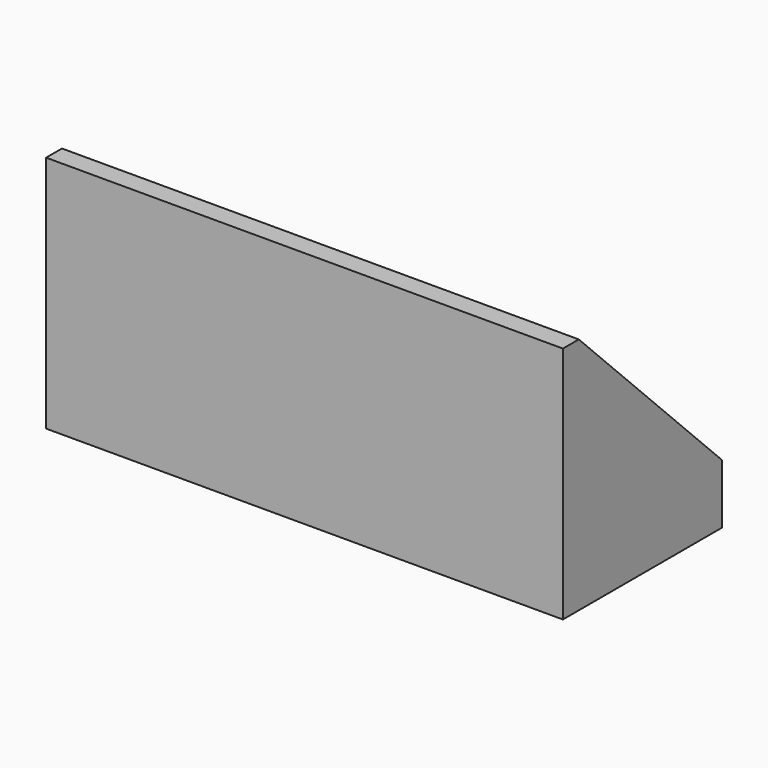
from build123d import *

# Parameters (mm, degrees)
CYLINDER010_R     = 1
CYLINDER010_DEPTH = 10
BOX017_W          = 13
BOX017_H          = 5
BOX017_DEPTH      = 6
CHAMFER001_SIZE   = 4.5


with BuildPart() as cilindro010:
    # Cylinder010 → Cylinder010 (new body)
    with BuildSketch(Plane(origin=(15, 4.5, 113), x_dir=(1, 0, 0), z_dir=(0, 0, 1))):
        Circle(CYLINDER010_R)
    extrude(amount=CYLINDER010_DEPTH)


with BuildPart() as sim:
    # Box017 → Box017 (new body)
    with BuildSketch(Plane(origin=(4, 2, 118), x_dir=(1, 0, 0), z_dir=(0, 0, 1))):
        with Locations((6.5, 2.5)):
            Rectangle(BOX017_W, BOX017_H)
    extrude(amount=BOX017_DEPTH)

    # Chamfer001
    chamfer001_edges = [sim.edges().sort_by_distance(p)[0] for p in [
        (10.5, 7, 124),
    ]]
    chamfer(chamfer001_edges, length=CHAMFER001_SIZE)

    # Cut030: cut Cilindro010
    add(cilindro010.part, mode=Mode.SUBTRACT)


solid = sim.part
